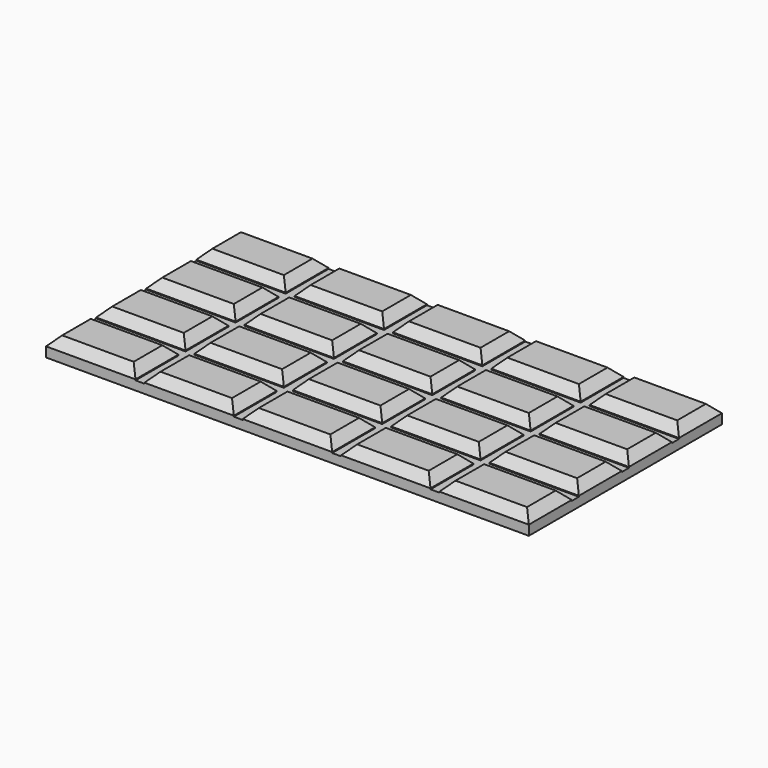
from build123d import *

# Parameters (mm, degrees)
BOX001_W      = 10
BOX001_H      = 6
BOX001_DEPTH  = 1.1
CHAMFER_SIZE  = 1
ARRAY_X_COUNT = 5
ARRAY_X_PITCH = 11
ARRAY_Y_COUNT = 4
ARRAY_Y_PITCH = 7
BOX_W         = 54
BOX_H         = 27
BOX_DEPTH     = 1


with BuildPart() as array:
    # Box001 → Box001 (new body)
    with BuildSketch(Plane.XY.offset(1)):
        with Locations((5, 3)):
            Rectangle(BOX001_W, BOX001_H)
    extrude(amount=BOX001_DEPTH)

    # Chamfer
    chamfer_edges = [array.edges().sort_by_distance(p)[0] for p in [
        (0, 3, 2.1),
        (10, 3, 2.1),
        (5, 0, 2.1),
        (5, 6, 2.1),
    ]]
    chamfer(chamfer_edges, length=CHAMFER_SIZE)

    # Array X: Array ×5


with BuildPart() as array_1:
    add(array.part)
    with Locations(*[(i * ARRAY_X_PITCH, 0, 0) for i in range(1, ARRAY_X_COUNT)]):
        add(array.part)

    # Array Y: Array ×4


with BuildPart() as array_2:
    add(array_1.part)
    with Locations(*[(0, i * ARRAY_Y_PITCH, 0) for i in range(1, ARRAY_Y_COUNT)]):
        add(array_1.part)


with BuildPart() as chocolat:
    # Box → Box (new body)
    with BuildSketch(Plane.XY):
        with Locations((27, 13.5)):
            Rectangle(BOX_W, BOX_H)
    extrude(amount=BOX_DEPTH)

    # Fusion: union Array
    add(array_2.part)


solid = chocolat.part
